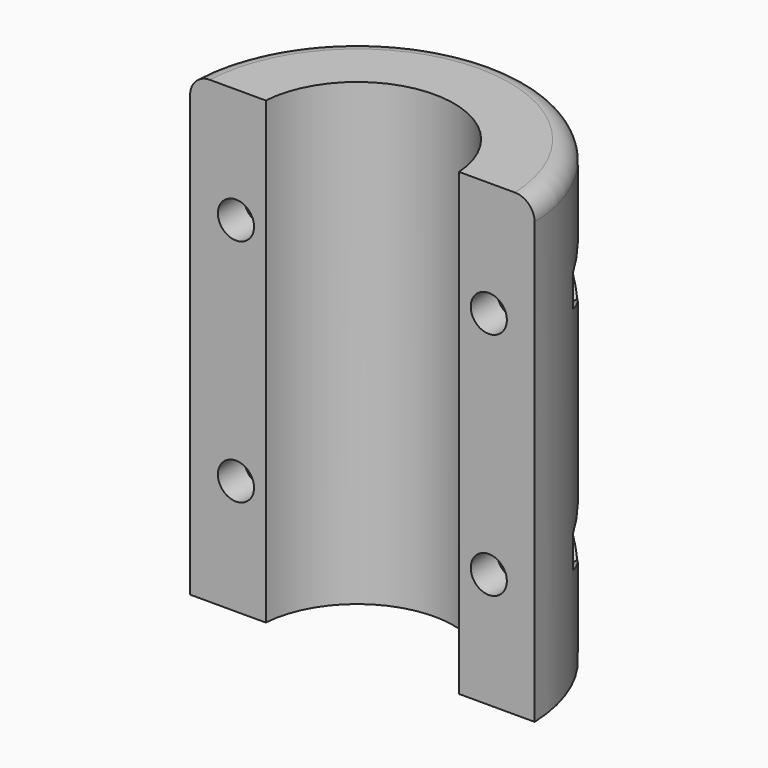
from build123d import *

# Parameters (mm, degrees)
PAD_DEPTH       = 70
SKETCH001_R     = 2.75
POCKET_DEPTH    = 25.251
SKETCH002_R     = 4.75
POCKET001_DEPTH = 20.251
FILLET_R        = 3


with BuildPart() as part:
    # Sketch → Pad (new body)
    with BuildSketch(Plane.XY):
        with BuildLine():
            ThreePointArc((14.716063, 0), (0, 13.75), (-14.716063, 0))
            Line((-26.230945, 0), (-14.716063, 0))
            ThreePointArc((26.230945, 0), (0, 25.25), (-26.230945, 0))
            Line((14.716063, 0), (26.230945, 0))
        make_face()
    extrude(amount=PAD_DEPTH)

    # Sketch001 (on Face2 of Pad) → Pocket (cut, through all)
    with BuildSketch(Plane.XZ):
        with Locations((-19.25, 17.5)):
            Circle(SKETCH001_R)
        with Locations((19.25, 17.5)):
            Circle(SKETCH001_R)
        with Locations((19.25, 52.5)):
            Circle(SKETCH001_R)
        with Locations((-19.25, 52.5)):
            Circle(SKETCH001_R)
    extrude(amount=-POCKET_DEPTH, mode=Mode.SUBTRACT)

    # Sketch002 (on DatumPlane) → Pocket001 (cut, through all)
    with BuildSketch(Plane.XZ.offset(-5)):
        with Locations((-19.25, 17.5)):
            Circle(SKETCH002_R)
        with Locations((-19.25, 52.5)):
            Circle(SKETCH002_R)
        Polygon((19.25, 12.592523), (23.5, 15.046261), (23.5, 19.953739), (19.25, 22.407477), (15, 19.953739), (15, 15.046261), align=None)
        Polygon((19.25, 47.592523), (23.5, 50.046261), (23.5, 54.953739), (19.25, 57.407477), (15, 54.953739), (15, 50.046261), align=None)
    extrude(amount=-POCKET001_DEPTH, mode=Mode.SUBTRACT)

    # Fillet
    fillet_edges = [part.edges().sort_by_distance(p)[0] for p in [
        (0, 25.25, 70),
    ]]
    fillet(fillet_edges, radius=FILLET_R)


solid = part.part
